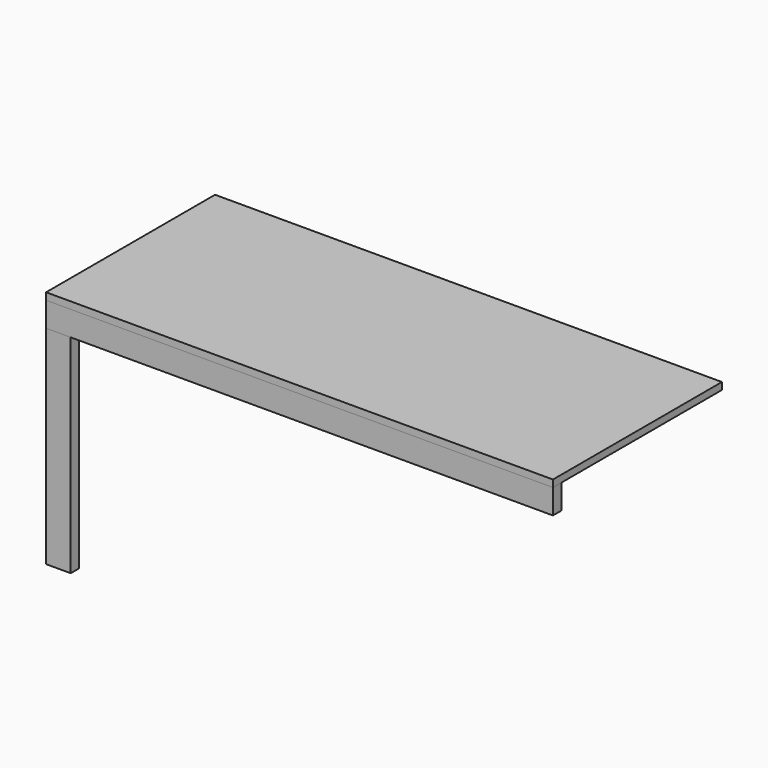
from build123d import *

# Parameters (mm, degrees)
F1_DEPTH = 762
F2_DEPTH = 38.1
F0_W     = 38.1
F0_H     = 88.9
F3_DEPTH = 685.8
F0_W_2   = 50.8
F5_DEPTH = 38.1


with BuildPart() as f1:
    # F0 (on Front) → F1 (new body)
    with BuildSketch(Plane.XZ):
        Polygon((914.4, 0), (0, 0), (-914.4, 0), (-914.4, -25.4), (-876.3, -25.4), (-825.5, -25.4), (0, -25.4), (825.5, -25.4), (876.3, -25.4), (914.4, -25.4), align=None)
    extrude(amount=-F1_DEPTH)


with BuildPart() as f2:
    # F0 (on Front) → F2 (new body)
    with BuildSketch(Plane.XZ):
        Polygon((-876.3, -114.3), (-914.4, -114.3), (-914.4, -863.6), (-825.5, -863.6), (-825.5, -114.3), align=None)
    extrude(amount=-F2_DEPTH)


with BuildPart() as f3:
    # F0 (on Front) → F3 (new body)
    with BuildSketch(Plane.XZ):
        with Locations((-895.35, -69.85)):
            Rectangle(F0_W, F0_H)
    extrude(amount=-F3_DEPTH)


with BuildPart() as f3_1:
    # F4: moved
    add(f3.part.moved(Location((0, 38.1, 0))))


with BuildPart() as f5:
    # F0 (on Front) → F5 (new body)
    with BuildSketch(Plane.XZ):
        Polygon((0, -25.4), (-825.5, -25.4), (-825.5, -114.3), (0, -114.3), (825.5, -114.3), (825.5, -25.4), align=None)
        with Locations((-850.9, -69.85)):
            Rectangle(F0_W_2, F0_H)
        with Locations((-895.35, -69.85)):
            Rectangle(F0_W, F0_H)
        with Locations((850.9, -69.85)):
            Rectangle(F0_W_2, F0_H)
        with Locations((895.35, -69.85)):
            Rectangle(F0_W, F0_H)
    extrude(amount=-F5_DEPTH)


solid = Compound([f1.part, f2.part, f3_1.part, f5.part])
